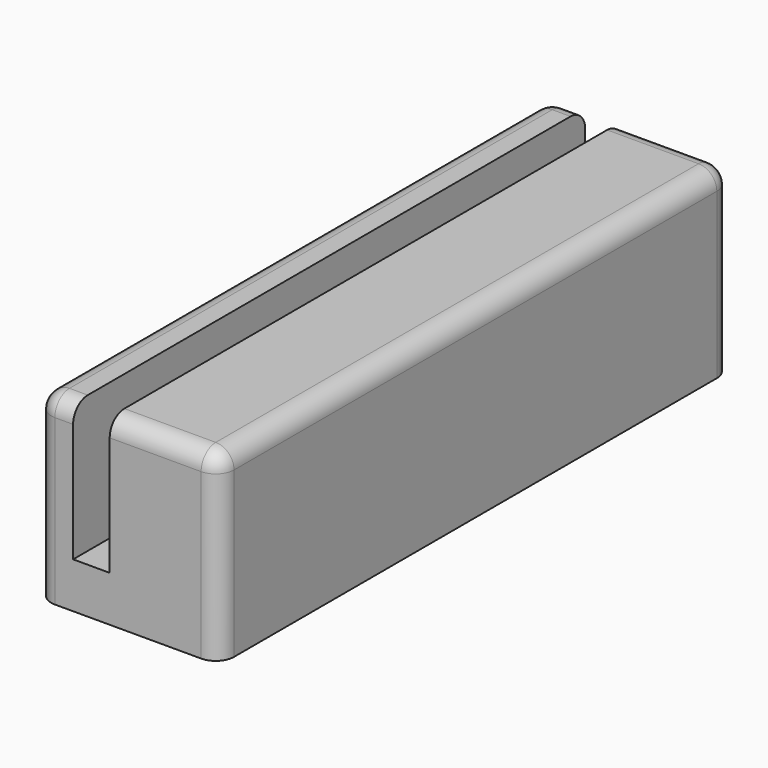
from build123d import *

# Parameters (mm, degrees)
F0_W     = 20
F0_H     = 70
F1_DEPTH = 20
F2_W     = 4
F2_H     = 70
F3_DEPTH = 15
F4_R     = 2


with BuildPart() as f1:
    # F0 (on Top) → F1 (new body)
    with BuildSketch(Plane.XY):
        Rectangle(F0_W, F0_H)
    extrude(amount=F1_DEPTH)

    # F2 (on face) → F3 (cut)
    with BuildSketch(Plane.XY.offset(20)):
        with Locations((-4, 0)):
            Rectangle(F2_W, F2_H)
    extrude(amount=-F3_DEPTH, mode=Mode.SUBTRACT)

    # F4
    f4_edges = [f1.edges().sort_by_distance(p)[0] for p in [
        (10, 0, 20),
        (-10, 0, 20),
        (4, -35, 20),
        (-8, -35, 20),
        (4, 35, 20),
        (-8, 35, 20),
        (10, -35, 10),
        (-10, -35, 10),
        (10, 35, 10),
        (-10, 35, 10),
    ]]
    fillet(f4_edges, radius=F4_R)


solid = f1.part
